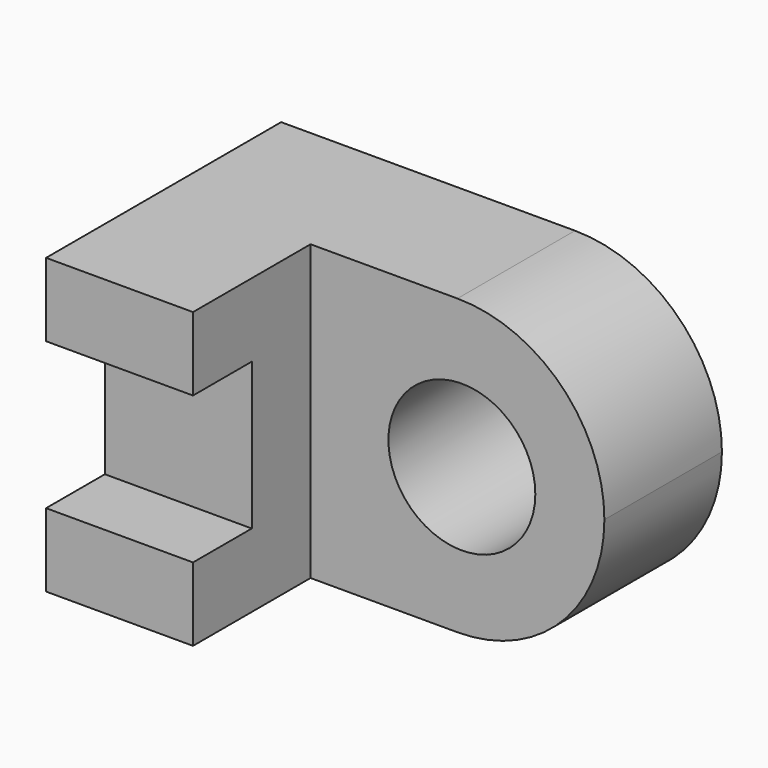
from build123d import *

# Parameters (mm, degrees)
F0_W     = 12.7
F0_H     = 25.4
F1_DEPTH = 25.4
F2_W     = 12.7
F2_H     = 25.4
F3_DEPTH = 25.4
F5_DEPTH = 25.4
F6_W     = 6.35
F6_H     = 12.7
F7_DEPTH = 25.4
F8_R     = 6.35
F9_DEPTH = 12.701


with BuildPart() as f1:
    # F0 (on Front) → F1 (new body)
    with BuildSketch(Plane.XZ):
        with Locations((6.35, 12.7)):
            Rectangle(F0_W, F0_H)
    extrude(amount=F1_DEPTH)

    # F2 (on face) → F3 (join)
    with BuildSketch(Plane.YZ.offset(12.7)):
        with Locations((-6.35, 12.7)):
            Rectangle(F2_W, F2_H)
    extrude(amount=F3_DEPTH)

    # F4 (on face) → F5 (cut)
    with BuildSketch(Plane.XZ.offset(12.7)):
        with BuildLine():
            ThreePointArc((38.1, 12.7), (34.380256, 3.719744), (25.4, 0))
            Line((25.4, 0), (38.1, 0))
            Line((38.1, 0), (38.1, 12.7))
        make_face()
        with BuildLine():
            ThreePointArc((25.4, 25.4), (34.380256, 21.680256), (38.1, 12.7))
            Line((38.1, 12.7), (38.1, 25.4))
            Line((38.1, 25.4), (25.4, 25.4))
        make_face()
    extrude(amount=-F5_DEPTH, mode=Mode.SUBTRACT)

    # F6 (on face) → F7 (cut)
    with BuildSketch(Plane.YZ.offset(12.7)):
        with Locations((-22.225, 12.7)):
            Rectangle(F6_W, F6_H)
    extrude(amount=-F7_DEPTH, mode=Mode.SUBTRACT)

    # F8 (on face) → F9 (cut, through all)
    with BuildSketch(Plane.XZ.offset(12.7)):
        with Locations((25.780262, 12.7)):
            Circle(F8_R)
    extrude(amount=-F9_DEPTH, mode=Mode.SUBTRACT)


solid = f1.part
